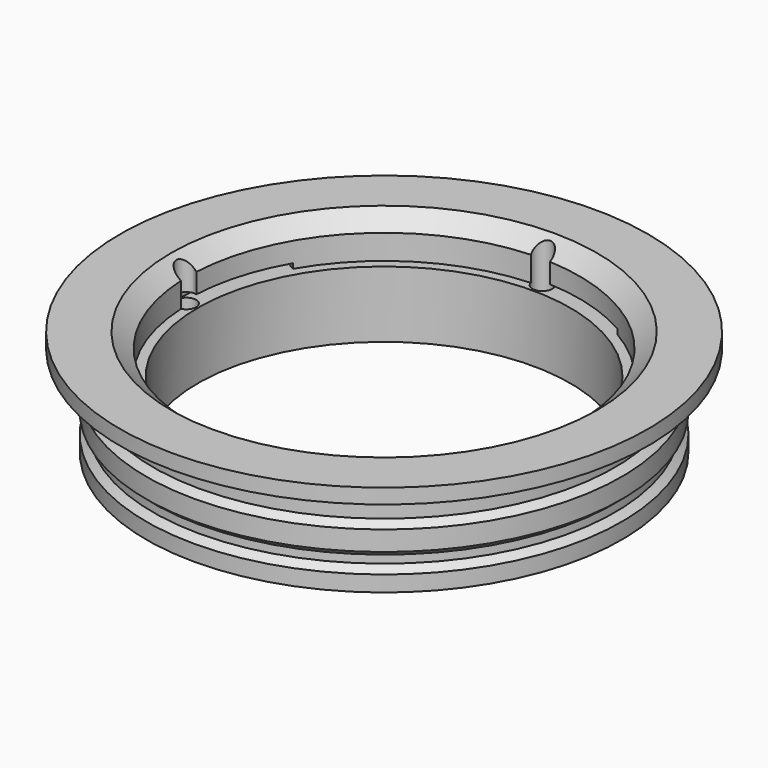
from build123d import *

# Parameters (mm, degrees)
SKETCH001_R           = 2
POCKET_DEPTH          = 317.933954
POCKET_DEPTH_BACK     = 312.533954
POLARPATTERN_COUNT    = 4
POCKET001_DEPTH       = 1
POLARPATTERN001_COUNT = 4


with BuildPart() as part:
    # Sketch → Revolution (revolve)
    with BuildSketch(Plane.YZ):
        Polygon((-37.6, 0), (-48, 0), (-48, 3.2), (-46.6, 4.4), (-46.6, 6), (-48, 7.2), (-48, 11.2), (-46.6, 12.4), (-46.6, 16), (-48, 17.2), (-48, 18.4), (-53.3, 18.4), (-53.3, 21.4), (-43, 21.4), (-39.5, 18.4), (-39.5, 13.4), (-37.6, 13.4), align=None)
    revolve(axis=Axis((0, 0, 0), (0, 0, 1)))

    # Sketch001 (on Face16 of Revolution) → Pocket (cut, two sides)
    with BuildSketch(Plane(origin=(0, 0, 13.4), x_dir=(0, -1, 0), z_dir=(0, 0, 1))) as pocket_sk:
        with Locations((0, 39.95)):
            Circle(SKETCH001_R)
    pocket = extrude(amount=-POCKET_DEPTH, mode=Mode.SUBTRACT) + extrude(pocket_sk.sketch, amount=POCKET_DEPTH_BACK, mode=Mode.SUBTRACT)

    # PolarPattern: Pocket ×4 about axis
    polarpattern_axis = Axis((0, 0, 13.4), (0, 0, 1))
    for i in range(1, POLARPATTERN_COUNT):
        add(pocket.rotate(polarpattern_axis, i * 360 / POLARPATTERN_COUNT), mode=Mode.SUBTRACT)

    # Sketch002 (on Face11 of PolarPattern) → Pocket001 (cut)
    with BuildSketch(Plane(origin=(0, 0, 13.4), x_dir=(0, -1, 0), z_dir=(0, 0, 1))):
        with BuildLine():
            Line((-41.95, 0), (0, 0))
            Line((0, 0), (-36.329766, 20.975))
            ThreePointArc((-36.329766, 20.975), (-40.520588, 10.857459), (-41.95, 0))
        make_face()
    pocket001 = extrude(amount=POCKET001_DEPTH, mode=Mode.SUBTRACT)

    # PolarPattern001: Pocket001 ×4 about axis
    polarpattern001_axis = Axis((0, 0, 13.4), (0, 0, 1))
    for i in range(1, POLARPATTERN001_COUNT):
        add(pocket001.rotate(polarpattern001_axis, i * 360 / POLARPATTERN001_COUNT), mode=Mode.SUBTRACT)


solid = part.part
